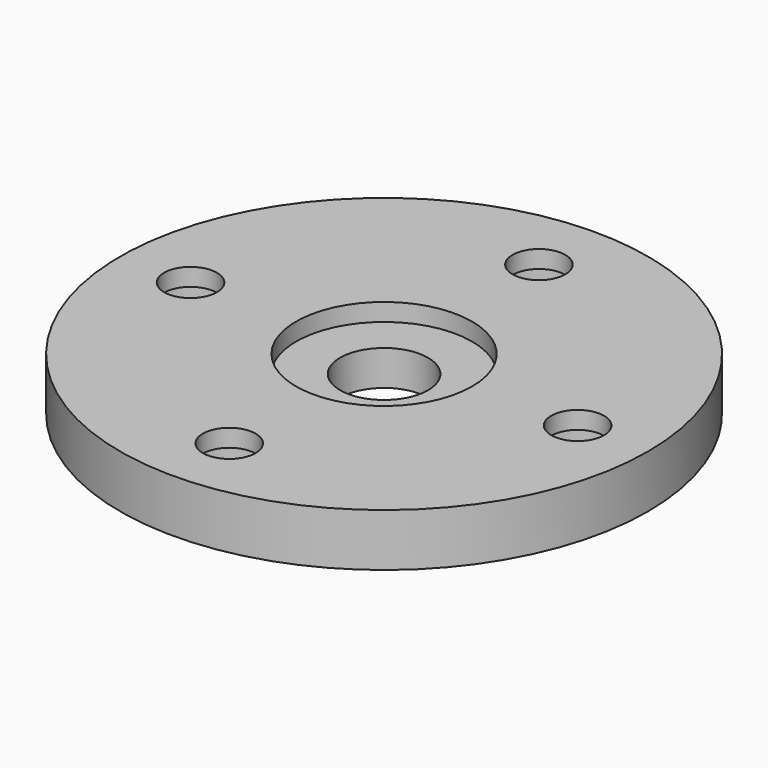
from build123d import *

# Parameters (mm, degrees)
SKETCH_R        = 15
SKETCH_R_2      = 1.5
PAD_DEPTH       = 3
SKETCH002_R     = 2.5
POCKET_DEPTH    = 9
SKETCH001_R     = 5
POCKET001_DEPTH = 1
SKETCH003_R     = 2.5
POCKET002_DEPTH = 2


with BuildPart() as part:
    # Sketch → Pad (new body)
    with BuildSketch(Plane.XY):
        Circle(SKETCH_R)
        with Locations((0, 11)):
            Circle(SKETCH_R_2, mode=Mode.SUBTRACT)
        with Locations((-11, 0)):
            Circle(SKETCH_R_2, mode=Mode.SUBTRACT)
        with Locations((0, -11)):
            Circle(SKETCH_R_2, mode=Mode.SUBTRACT)
        with Locations((11, 0)):
            Circle(SKETCH_R_2, mode=Mode.SUBTRACT)
    extrude(amount=PAD_DEPTH)

    # Sketch002 (on Face7 of Pad) → Pocket (cut)
    with BuildSketch(Plane.XY.offset(3)):
        Circle(SKETCH002_R)
    extrude(amount=-POCKET_DEPTH, mode=Mode.SUBTRACT)

    # Sketch001 (on Face7 of Pad) → Pocket001 (cut)
    with BuildSketch(Plane.XY.offset(3)):
        Circle(SKETCH001_R)
    extrude(amount=-POCKET001_DEPTH, mode=Mode.SUBTRACT)

    # Sketch003 (on Face2 of Pocket001) → Pocket002 (cut)
    with BuildSketch(Plane(origin=(0, 0, 0), x_dir=(1, 0, 0), z_dir=(0, 0, -1))):
        with Locations((0, 11)):
            Circle(SKETCH003_R)
        with Locations((11, 0)):
            Circle(SKETCH003_R)
        with Locations((0, -11)):
            Circle(SKETCH003_R)
        with Locations((-11, 0)):
            Circle(SKETCH003_R)
    extrude(amount=-POCKET002_DEPTH, mode=Mode.SUBTRACT)


solid = part.part
